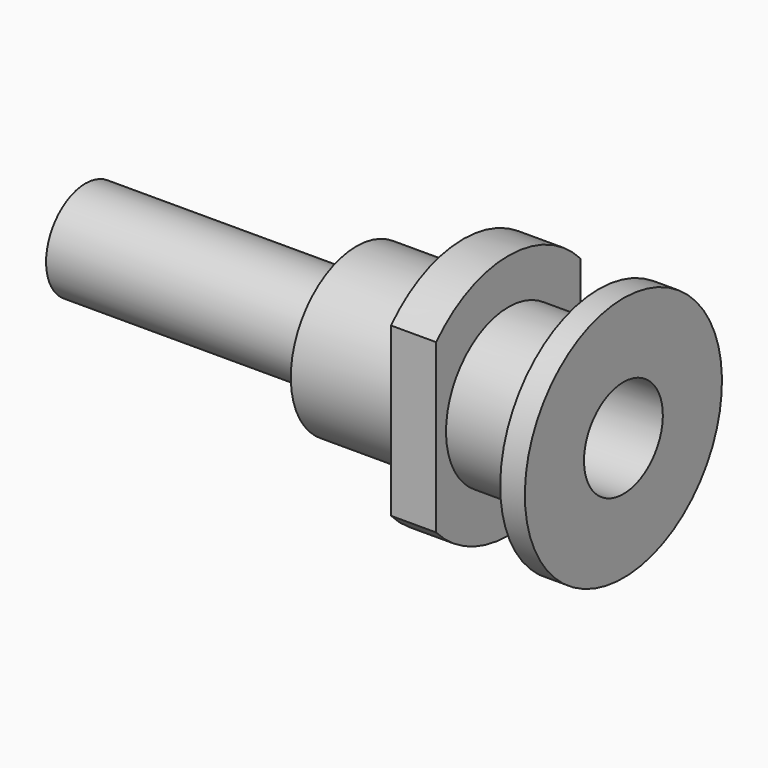
from build123d import *

# Parameters (mm, degrees)
F0_W     = 11
F0_H     = 3.5
F0_W_2   = 33
F0_H_2   = 2
F3_DEPTH = 5.5


with BuildPart() as f1:
    # F0 (on Front) → F1 (revolve)
    with BuildSketch(Plane.XZ):
        Polygon((62.5, 9.5), (62.5, 6), (65.5, 6), (65.5, 15), (62.5, 15), align=None)
        with Locations((57, 7.75)):
            Rectangle(F0_W, F0_H)
        with Locations((16.5, 5)):
            Rectangle(F0_W_2, F0_H_2)
        Polygon((33, 6), (33, 4), (46, 4), (46, 10), (33, 10), align=None)
        Polygon((46, 10), (46, 4), (51.5, 4), (51.5, 6), (51.5, 9.5), (51.5, 15), (46, 15), align=None)
    revolve(axis=Axis((16.5, 0, 0), (1, 0, 0)))

    # F2 (on face) → F3 (cut)
    with BuildSketch(Plane(origin=(46, 0, 0), x_dir=(0, -1, 0), z_dir=(-1, 0, 0))):
        with BuildLine():
            Line((-11, -10.1980390272), (-11, 0))
            Line((-11, 0), (-11, 10.1980390272))
            ThreePointArc((-11, 10.1980390272), (-15, 0), (-11, -10.1980390272))
        make_face()
        with BuildLine():
            Line((11, 10.1980390272), (11, 0))
            Line((11, 0), (11, -10.1980390272))
            ThreePointArc((11, -10.1980390272), (13.9642400438, -5.4772255751), (15, 0))
            ThreePointArc((15, 0), (13.9642400438, 5.4772255751), (11, 10.1980390272))
        make_face()
    extrude(amount=-F3_DEPTH, mode=Mode.SUBTRACT)


solid = f1.part
